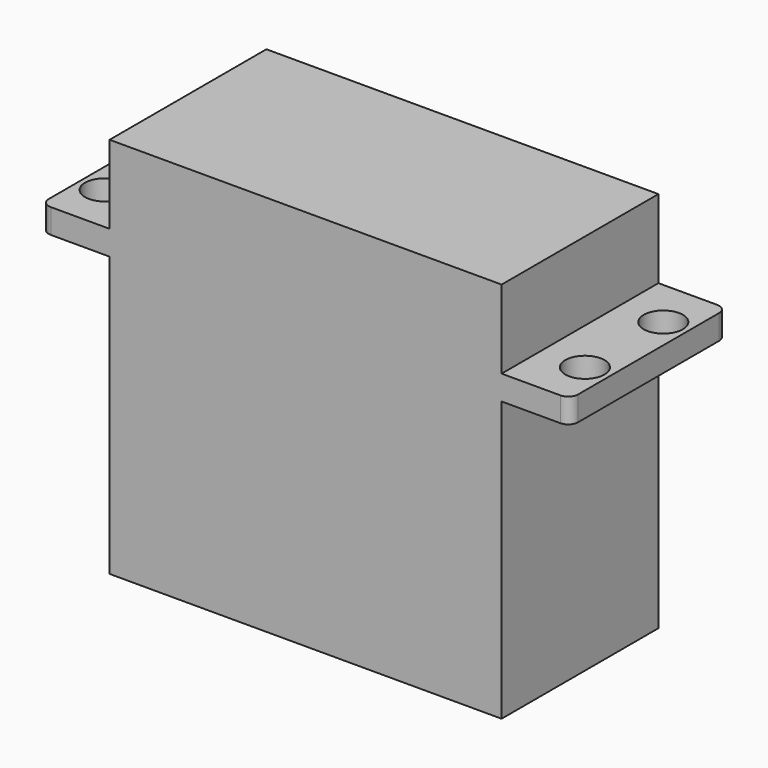
from build123d import *

# Parameters (mm, degrees)
PAD050_DEPTH    = 10
SKETCH087_R     = 2
POCKET033_DEPTH = 47.001
FILLET024_R     = 1


with BuildPart() as part:
    # Sketch086 → Pad050 (new body, symmetric)
    with BuildSketch(Plane.XZ):
        Polygon((-37, -18.5), (-37, -16), (-30, -16), (-30, -8), (10, -8), (10, -16), (17, -16), (17, -18.5), (10, -18.5), (10, -47), (-30, -47), (-30, -18.5), align=None)
    extrude(amount=PAD050_DEPTH, both=True)

    # Sketch087 → Pocket033 (cut, through all)
    with BuildSketch(Plane.XY):
        with Locations((14.5, 5)):
            Circle(SKETCH087_R)
        with Locations((14.5, -5)):
            Circle(SKETCH087_R)
        with Locations((-34.5, 5)):
            Circle(SKETCH087_R)
        with Locations((-34.5, -5)):
            Circle(SKETCH087_R)
    extrude(amount=-POCKET033_DEPTH, mode=Mode.SUBTRACT)

    # Fillet024
    fillet024_edges = [part.edges().sort_by_distance(p)[0] for p in [
        (17, -10, -17.25),
        (17, 10, -17.25),
        (-37, -10, -17.25),
        (-37, 10, -17.25),
    ]]
    fillet(fillet024_edges, radius=FILLET024_R)


solid = part.part
